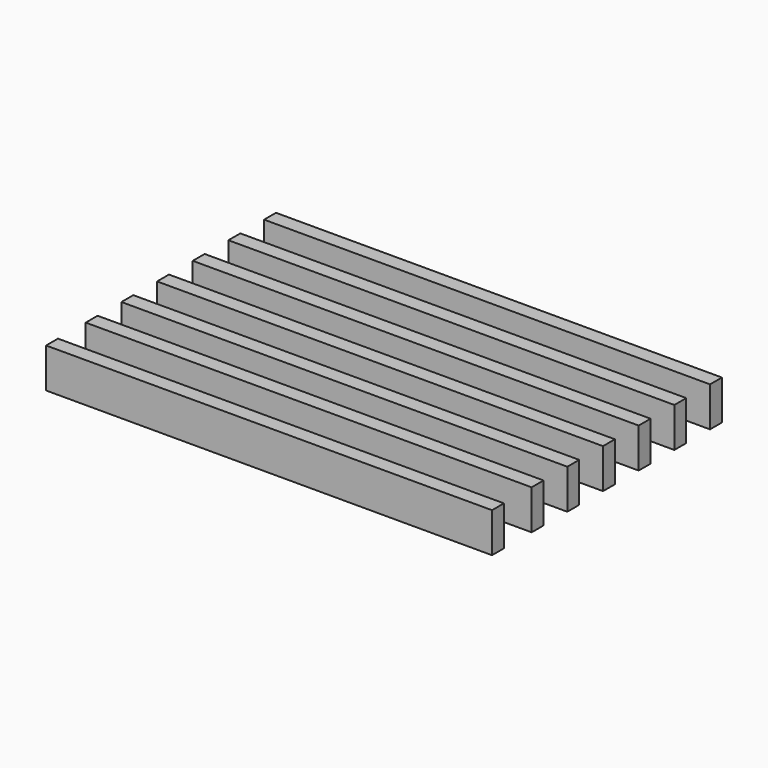
from build123d import *

# Parameters (mm, degrees)
F0_W     = 285.75
F0_H     = 9.525
F1_DEPTH = 25.4


with BuildPart() as f1:
    # F0 (on Top) → F1 (new body)
    with BuildSketch(Plane.XY):
        with Locations((0, 87.3125)):
            Rectangle(F0_W, F0_H)
        with Locations((0, 58.7375)):
            Rectangle(F0_W, F0_H)
        with Locations((0, 30.1625)):
            Rectangle(F0_W, F0_H)
        with Locations((0, 1.5875)):
            Rectangle(F0_W, F0_H)
        with Locations((0, -26.9875)):
            Rectangle(F0_W, F0_H)
        with Locations((0, -87.3125)):
            Rectangle(F0_W, F0_H)
        with Locations((0, -55.5625)):
            Rectangle(F0_W, F0_H)
    extrude(amount=F1_DEPTH)


solid = f1.part
